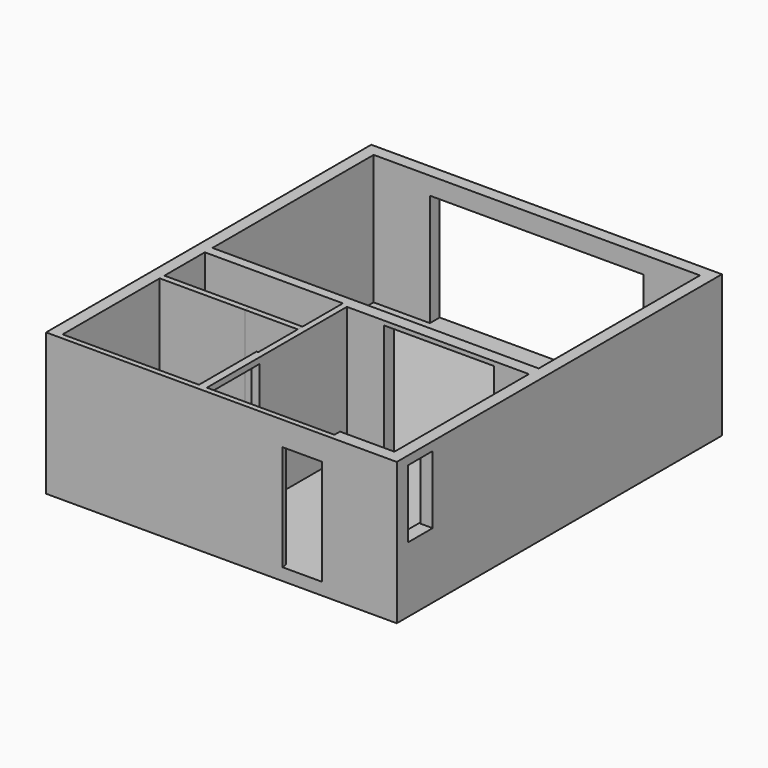
from build123d import *

# Parameters (mm, degrees)
F0_W      = 1356
F0_H      = 1226
F0_W_2    = 990
F0_H_2    = 1980
F1_DEPTH  = 2430
F2_W      = 147
F2_H      = 1226
F3_DEPTH  = 110
F4_W      = 2060
F4_H      = 228.6
F5_DEPTH  = 80
F6_W      = 577
F6_H      = 1270
F7_DEPTH  = 228.6
F8_W      = 667
F8_H      = 25
F9_DEPTH  = 25
F10_W     = 4000
F10_H     = 2100
F11_DEPTH = 228.6
F12_W     = 744
F12_H     = 1978
F13_DEPTH = 101.6
F14_W     = 770
F14_H     = 1991
F15_DEPTH = 42
F16_W     = 6563.2
F16_H     = 7606.2
F17_DEPTH = 228.6
F19_DEPTH = 1020
F20_W     = 2552
F20_H     = 2271
F21_DEPTH = 2430
F22_W     = 990
F22_H     = 110
F23_DEPTH = 2430
F24_W     = 110
F24_H     = 945
F25_DEPTH = 2430


with BuildPart() as f1:
    # F0 (on Top) → F1 (new body)
    with BuildSketch(Plane.XY):
        Polygon((-3255.263303, 4951.572915), (-3255.263303, 951.572915), (-3255.263303, -2250.100136), (-3255.263303, -2654.627085), (3307.936697, -2654.627085), (3307.936697, 951.572915), (3307.936697, 4951.572915), align=None)
        with Locations((-2348.663303, -1940.027085)):
            Rectangle(F0_W, F0_H, mode=Mode.SUBTRACT)
        Polygon((-3026.663303, -1212.027085), (-3026.663303, -960.060477), (-3026.663303, -282.027085), (-1542.663303, -282.027085), (-1542.663303, -1212.027085), align=None, mode=Mode.SUBTRACT)
        Polygon((-3026.663303, 772.972915), (-2642.663303, 772.972915), (-1542.663303, 772.972915), (-1542.663303, -172.027085), (-3026.663303, -172.027085), (-3026.663303, 0), align=None, mode=Mode.SUBTRACT)
        with Locations((-937.663303, -217.027085)):
            Rectangle(F0_W_2, F0_H_2, mode=Mode.SUBTRACT)
        Polygon((369.336697, 951.572915), (-3026.663303, 951.572915), (-3026.663303, 4722.972915), (3079.336697, 4722.972915), (3079.336697, 951.572915), (2429.336697, 951.572915), (2429.336697, 722.972915), (3079.336697, 722.972915), (3079.336697, -2553.027085), (-1537.663303, -2553.027085), (-1537.663303, -1327.027085), (-327.663303, -1327.027085), (-327.663303, 722.972915), (369.336697, 722.972915), align=None, mode=Mode.SUBTRACT)
    extrude(amount=F1_DEPTH)

    # F2 (on face) → F3 (join)
    with BuildSketch(Plane.XY.offset(2430)):
        with Locations((-401.163303, -1940.027085)):
            Rectangle(F2_W, F2_H)
    extrude(amount=-F3_DEPTH)

    # F4 (on face) → F5 (join)
    with BuildSketch(Plane.XY.offset(2430)):
        with Locations((1399.336697, 837.272915)):
            Rectangle(F4_W, F4_H)
    extrude(amount=-F5_DEPTH)

    # F6 (on face) → F7 (cut, through all)
    with BuildSketch(Plane(origin=(3079.336697, 0, 0), x_dir=(0, -1, 0), z_dir=(-1, 0, 0))):
        with Locations((2104.527085, 1633)):
            Rectangle(F6_W, F6_H)
    extrude(amount=-F7_DEPTH, mode=Mode.SUBTRACT)

    # F8 (on face) → F9 (join)
    with BuildSketch(Plane(origin=(3079.336697, 0, 0), x_dir=(0, -1, 0), z_dir=(-1, 0, 0))):
        with Locations((2104.527085, 985.5)):
            Rectangle(F8_W, F8_H)
    extrude(amount=F9_DEPTH)

    # F10 (on face) → F11 (cut, through all)
    with BuildSketch(Plane.XZ.offset(-4722.972915)):
        with Locations((26.166697, 1050)):
            Rectangle(F10_W, F10_H)
    extrude(amount=-F11_DEPTH, mode=Mode.SUBTRACT)

    # F12 (on face) → F13 (cut, through all)
    with BuildSketch(Plane(origin=(0, -2553.027085, 0), x_dir=(-1, 0, 0), z_dir=(0, 1, 0))):
        with Locations((-1537.336697, 989)):
            Rectangle(F12_W, F12_H)
    extrude(amount=-F13_DEPTH, mode=Mode.SUBTRACT)

    # F14 (on face) → F15 (cut)
    with BuildSketch(Plane(origin=(0, -2553.027085, 0), x_dir=(-1, 0, 0), z_dir=(0, 1, 0))):
        with Locations((-1537.336697, 995.5)):
            Rectangle(F14_W, F14_H)
    extrude(amount=-F15_DEPTH, mode=Mode.SUBTRACT)

    # F16 (on face) → F17 (join)
    with BuildSketch(Plane(origin=(0, 0, 0), x_dir=(1, 0, 0), z_dir=(0, 0, -1))):
        with Locations((26.336697, -1148.472915)):
            Rectangle(F16_W, F16_H)
    extrude(amount=F17_DEPTH)

    # F18 (on face) → F19 (join)
    with BuildSketch(Plane(origin=(3079.336697, 0, 0), x_dir=(0, -1, 0), z_dir=(-1, 0, 0))):
        Polygon((2553.027085, 2260), (2553.027085, 2430), (2423.027085, 2430), align=None)
    extrude(amount=F19_DEPTH)

    # F20 (on face) → F21 (cut, through all)
    with BuildSketch(Plane.XY.offset(2430)):
        with Locations((-1750.663303, -1417.527085)):
            Rectangle(F20_W, F20_H)
    extrude(amount=-F21_DEPTH, mode=Mode.SUBTRACT)

    # F24 (on face) → F25 (cut, through all)
    with BuildSketch(Plane.XY.offset(2430)):
        with Locations((-1487.663303, 300.472915)):
            Rectangle(F24_W, F24_H)
    extrude(amount=-F25_DEPTH, mode=Mode.SUBTRACT)


with BuildPart() as f23:
    # F22 (on face) → F23 (new body, through all)
    with BuildSketch(Plane.XY.offset(2430)):
        with Locations((-937.663303, -227.027085)):
            Rectangle(F22_W, F22_H)
    extrude(amount=-F23_DEPTH)


solid = Compound([f1.part, f23.part])
